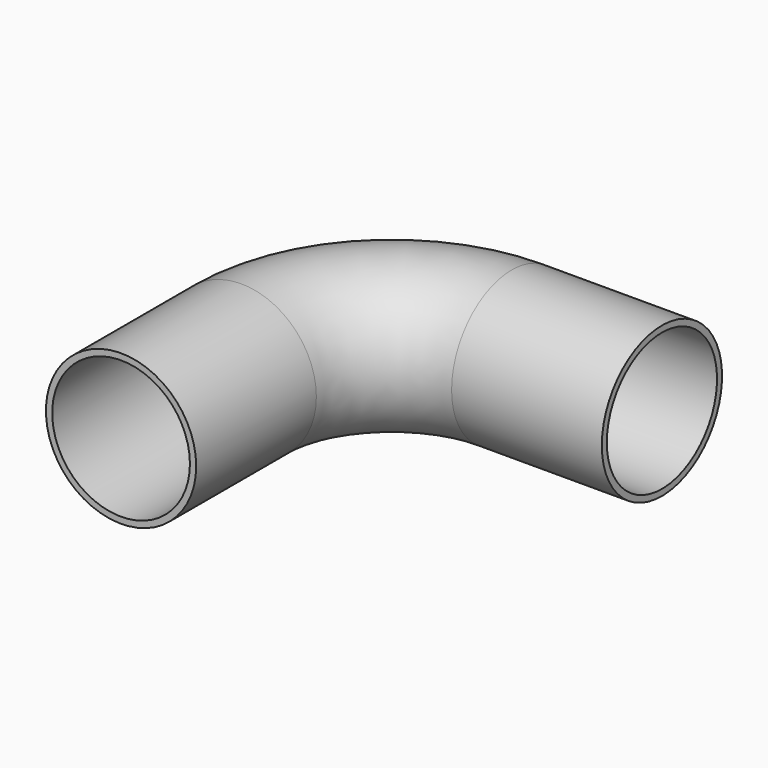
from build123d import *

# Parameters (mm, degrees)
F0_R = 76.2
F3_T = -6.35


with BuildPart() as f2:
    # F2: sweep along a path in F1
    with BuildLine(Plane.XY) as f2_path:
        Line((0, 0), (0, 152.4))
        ThreePointArc((0, 152.4), (44.6369265472, 260.1630734528), (152.4, 304.8))
        Line((152.4, 304.8), (304.8, 304.8))
    # F0 (on Front) → F2 (sweep)
    with BuildSketch(Plane.XZ):
        Circle(F0_R)
    sweep(path=f2_path.line)

    # F3
    f3_openings = [f2.faces().sort_by_distance(p)[0] for p in [
        (0, 0, 0),
        (304.8, 304.8, 0),
    ]]
    offset(amount=F3_T, openings=f3_openings)


solid = f2.part
